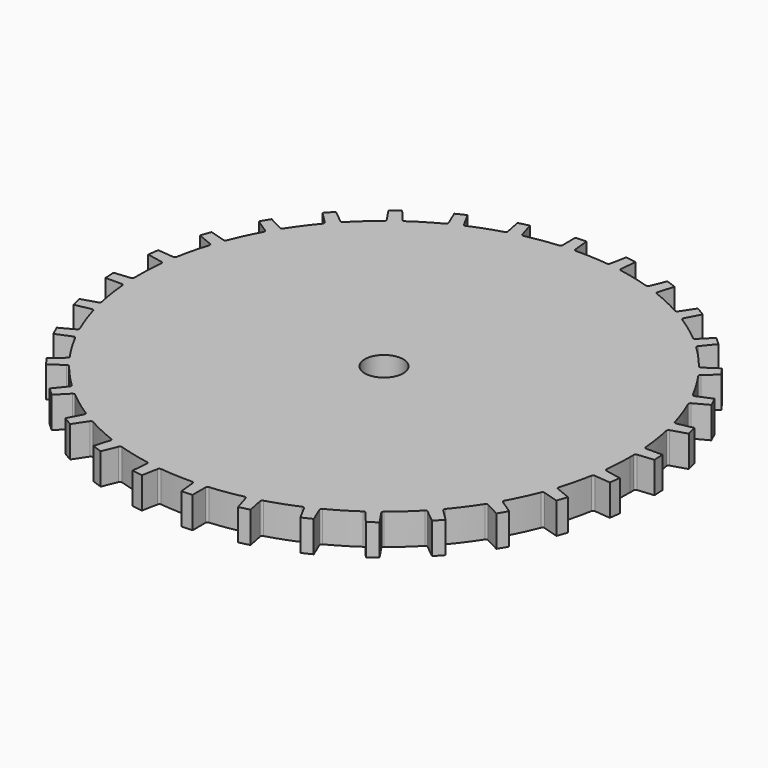
from build123d import *

# Parameters (mm, degrees)
F0_R     = 2.4
F1_DEPTH = 1.95
F2_R     = 0.254
F3_R     = 0.254
F4_R     = 0.254
F5_R     = 0.254


with BuildPart() as f1:
    # F0 (on Top) → F1 (new body, symmetric)
    with BuildSketch(Plane.XY):
        with BuildLine():
            Line((8.766769, -31.814207), (8.319825, -29.603091))
            ThreePointArc((8.319825, -29.603091), (7.56401, -29.805172), (6.803298, -29.987958))
            Line((6.803298, -29.987958), (7.464817, -32.144619))
            Line((7.464817, -32.144619), (8.766769, -31.814207))
        make_face()
        with BuildLine():
            Line((24.964328, -21.581991), (23.364278, -19.991823))
            ThreePointArc((23.364278, -19.991823), (22.848111, -20.579756), (22.317153, -21.154366))
            Line((22.317153, -21.154366), (24.065362, -22.580043))
            Line((24.065362, -22.580043), (24.964328, -21.581991))
        make_face()
        with BuildLine():
            Line((14.804962, -29.492594), (13.935239, -27.411159))
            ThreePointArc((13.935239, -27.411159), (13.23337, -27.756808), (12.522935, -28.08449))
            Line((12.522935, -28.08449), (13.592487, -30.070655))
            Line((13.592487, -30.070655), (14.804962, -29.492594))
        make_face()
        with BuildLine():
            Line((28.695083, -16.297), (26.815551, -15.049542))
            ThreePointArc((26.815551, -15.049542), (26.424002, -15.726876), (26.015347, -16.39403))
            Line((26.015347, -16.39403), (28.008101, -17.451255))
            Line((28.008101, -17.451255), (28.695083, -16.297))
        make_face()
        with BuildLine():
            Line((20.274208, -26.037597), (19.015129, -24.165831))
            ThreePointArc((19.015129, -24.165831), (18.394179, -24.641767), (17.761323, -25.101751))
            Line((17.761323, -25.101751), (19.197805, -26.841093))
            Line((19.197805, -26.841093), (20.274208, -26.037597))
        make_face()
        with BuildLine():
            Line((-16.297, -28.695083), (-15.049542, -26.815551))
            ThreePointArc((-15.049542, -26.815551), (-15.726876, -26.424002), (-16.39403, -26.015347))
            Line((-16.39403, -26.015347), (-17.451255, -28.008101))
            Line((-17.451255, -28.008101), (-16.297, -28.695083))
        make_face()
        with BuildLine():
            Line((32.747392, -4.075332), (30.533549, -3.642096))
            ThreePointArc((30.533549, -3.642096), (30.431009, -4.417711), (30.30877, -5.190466))
            Line((30.30877, -5.190466), (32.554417, -5.404621))
            Line((32.554417, -5.404621), (32.747392, -4.075332))
        make_face()
        with BuildLine():
            ThreePointArc((30.657393, 2.384686), (30.708139, 1.603969), (30.739006, 0.822215))
            Line((30.739006, 0.822215), (32.983282, 1.050279))
            Line((32.983282, 1.050279), (32.913218, 2.391674))
            Line((32.913218, 2.391674), (30.657393, 2.384686))
        make_face()
        with BuildLine():
            ThreePointArc((29.603091, 8.319825), (29.805172, 7.56401), (29.987958, 6.803299))
            Line((29.987958, 6.803299), (32.144619, 7.464817))
            Line((32.144619, 7.464817), (31.814207, 8.766769))
            Line((31.814207, 8.766769), (29.603091, 8.319825))
        make_face()
        with BuildLine():
            ThreePointArc((27.411159, 13.935239), (27.756808, 13.23337), (28.08449, 12.522935))
            Line((28.08449, 12.522935), (30.070655, 13.592487))
            Line((30.070655, 13.592487), (29.492594, 14.804962))
            Line((29.492594, 14.804962), (27.411159, 13.935239))
        make_face()
        with BuildLine():
            ThreePointArc((24.165831, 19.015129), (24.641767, 18.394179), (25.101751, 17.761323))
            Line((25.101751, 17.761323), (26.841093, 19.197805))
            Line((26.841093, 19.197805), (26.037597, 20.274208))
            Line((26.037597, 20.274208), (24.165831, 19.015129))
        make_face()
        with BuildLine():
            ThreePointArc((19.991823, 23.364278), (20.579756, 22.848111), (21.154366, 22.317153))
            Line((21.154366, 22.317153), (22.580043, 24.065362))
            Line((22.580043, 24.065362), (21.58199, 24.964328))
            Line((21.58199, 24.964328), (19.991823, 23.364278))
        make_face()
        with BuildLine():
            ThreePointArc((15.049542, 26.815551), (15.726876, 26.424002), (16.39403, 26.015347))
            Line((16.39403, 26.015347), (17.451255, 28.008101))
            Line((17.451255, 28.008101), (16.297, 28.695083))
            Line((16.297, 28.695083), (15.049542, 26.815551))
        make_face()
        with BuildLine():
            ThreePointArc((9.528914, 29.236318), (10.269622, 28.984433), (11.003681, 28.713786))
            Line((11.003681, 28.713786), (11.651825, 30.874504))
            Line((11.651825, 30.874504), (10.385724, 31.323102))
            Line((10.385724, 31.323102), (9.528914, 29.236318))
        make_face()
        with BuildLine():
            ThreePointArc((3.642096, 30.533549), (4.417711, 30.431009), (5.190466, 30.30877))
            Line((5.190466, 30.30877), (5.404621, 32.554417))
            Line((5.404621, 32.554417), (4.075332, 32.747392))
            Line((4.075332, 32.747392), (3.642096, 30.533549))
        make_face()
        with BuildLine():
            ThreePointArc((-2.384686, 30.657393), (-1.603969, 30.708139), (-0.822215, 30.739006))
            Line((-0.822215, 30.739006), (-1.050279, 32.983282))
            Line((-1.050279, 32.983282), (-2.391674, 32.913218))
            Line((-2.391674, 32.913218), (-2.384686, 30.657393))
        make_face()
        with BuildLine():
            ThreePointArc((-8.319825, 29.603091), (-7.56401, 29.805172), (-6.803298, 29.987958))
            Line((-6.803298, 29.987958), (-7.464817, 32.144619))
            Line((-7.464817, 32.144619), (-8.766769, 31.814207))
            Line((-8.766769, 31.814207), (-8.319825, 29.603091))
        make_face()
        with BuildLine():
            ThreePointArc((-13.935239, 27.411159), (-13.23337, 27.756808), (-12.522935, 28.08449))
            Line((-12.522935, 28.08449), (-13.592487, 30.070655))
            Line((-13.592487, 30.070655), (-14.804962, 29.492594))
            Line((-14.804962, 29.492594), (-13.935239, 27.411159))
        make_face()
        with BuildLine():
            Line((-10.385725, -31.323102), (-9.528914, -29.236318))
            ThreePointArc((-9.528914, -29.236318), (-10.269622, -28.984433), (-11.003681, -28.713786))
            Line((-11.003681, -28.713786), (-11.651825, -30.874504))
            Line((-11.651825, -30.874504), (-10.385725, -31.323102))
        make_face()
        with BuildLine():
            Line((-4.075332, -32.747392), (-3.642096, -30.533549))
            ThreePointArc((-3.642096, -30.533549), (-4.417711, -30.431009), (-5.190466, -30.30877))
            Line((-5.190466, -30.30877), (-5.404621, -32.554417))
            Line((-5.404621, -32.554417), (-4.075332, -32.747392))
        make_face()
        with BuildLine():
            Line((31.323102, -10.385724), (29.236318, -9.528914))
            ThreePointArc((29.236318, -9.528914), (28.984433, -10.269622), (28.713786, -11.003681))
            Line((28.713786, -11.003681), (30.874504, -11.651825))
            Line((30.874504, -11.651825), (31.323102, -10.385724))
        make_face()
        with BuildLine():
            Line((2.391674, -32.913218), (2.384686, -30.657393))
            ThreePointArc((2.384686, -30.657393), (1.603969, -30.708139), (0.822215, -30.739006))
            Line((0.822215, -30.739006), (1.050279, -32.983282))
            Line((1.050279, -32.983282), (2.391674, -32.913218))
        make_face()
        with BuildLine():
            ThreePointArc((30.533549, -3.642096), (30.69584, -1.824261), (30.75, 0))
            ThreePointArc((30.75, 0), (30.747251, 0.411144), (30.739006, 0.822215))
            ThreePointArc((30.739006, 0.822215), (30.708139, 1.603969), (30.657393, 2.384686))
            ThreePointArc((30.657393, 2.384686), (30.403054, 4.60617), (29.987958, 6.803299))
            ThreePointArc((29.987958, 6.803299), (29.805172, 7.56401), (29.603091, 8.319825))
            ThreePointArc((29.603091, 8.319825), (28.920249, 10.449005), (28.08449, 12.522935))
            ThreePointArc((28.08449, 12.522935), (27.756808, 13.23337), (27.411159, 13.935239))
            ThreePointArc((27.411159, 13.935239), (26.326055, 15.890291), (25.101751, 17.761323))
            ThreePointArc((25.101751, 17.761323), (24.641767, 18.394179), (24.165831, 19.015129))
            ThreePointArc((24.165831, 19.015129), (22.720165, 20.720922), (21.154366, 22.317153))
            ThreePointArc((21.154366, 22.317153), (20.579756, 22.848111), (19.991823, 23.364278))
            ThreePointArc((19.991823, 23.364278), (18.241152, 24.75526), (16.39403, 26.015347))
            ThreePointArc((16.39403, 26.015347), (15.726876, 26.424002), (15.049542, 26.815551))
            ThreePointArc((15.049542, 26.815551), (13.061142, 27.838266), (11.003681, 28.713786))
            ThreePointArc((11.003681, 28.713786), (10.269622, 28.984433), (9.528914, 29.236318))
            ThreePointArc((9.528914, 29.236318), (7.379199, 29.851464), (5.190466, 30.30877))
            ThreePointArc((5.190466, 30.30877), (4.417711, 30.431009), (3.642096, 30.533549))
            ThreePointArc((3.642096, 30.533549), (1.413678, 30.717487), (-0.822215, 30.739006))
            ThreePointArc((-0.822215, 30.739006), (-1.603969, 30.708139), (-2.384686, 30.657393))
            ThreePointArc((-2.384686, 30.657393), (-4.60617, 30.403054), (-6.803298, 29.987958))
            ThreePointArc((-6.803298, 29.987958), (-7.56401, 29.805172), (-8.319825, 29.603091))
            ThreePointArc((-8.319825, 29.603091), (-10.449005, 28.920249), (-12.522935, 28.08449))
            ThreePointArc((-12.522935, 28.08449), (-13.23337, 27.756808), (-13.935239, 27.411159))
            ThreePointArc((-13.935239, 27.411159), (-15.890291, 26.326055), (-17.761323, 25.101751))
            ThreePointArc((-17.761323, 25.101751), (-18.394179, 24.641767), (-19.015129, 24.165831))
            ThreePointArc((-19.015129, 24.165831), (-20.720922, 22.720165), (-22.317153, 21.154366))
            ThreePointArc((-22.317153, 21.154366), (-22.848111, 20.579756), (-23.364278, 19.991824))
            ThreePointArc((-23.364278, 19.991824), (-24.75526, 18.241152), (-26.015347, 16.39403))
            ThreePointArc((-26.015347, 16.39403), (-26.424002, 15.726876), (-26.815551, 15.049542))
            ThreePointArc((-26.815551, 15.049542), (-27.838266, 13.061142), (-28.713786, 11.003681))
            ThreePointArc((-28.713786, 11.003681), (-28.984433, 10.269622), (-29.236318, 9.528914))
            ThreePointArc((-29.236318, 9.528914), (-29.851464, 7.379199), (-30.30877, 5.190467))
            ThreePointArc((-30.30877, 5.190467), (-30.431009, 4.417711), (-30.533549, 3.642096))
            ThreePointArc((-30.533549, 3.642096), (-30.717487, 1.413678), (-30.739006, -0.822215))
            ThreePointArc((-30.739006, -0.822215), (-30.708139, -1.603969), (-30.657393, -2.384686))
            ThreePointArc((-30.657393, -2.384686), (-30.403054, -4.60617), (-29.987958, -6.803298))
            ThreePointArc((-29.987958, -6.803298), (-29.805172, -7.56401), (-29.603091, -8.319825))
            ThreePointArc((-29.603091, -8.319825), (-28.920249, -10.449005), (-28.08449, -12.522935))
            ThreePointArc((-28.08449, -12.522935), (-27.756808, -13.23337), (-27.411159, -13.935239))
            ThreePointArc((-27.411159, -13.935239), (-26.326055, -15.890291), (-25.101751, -17.761323))
            ThreePointArc((-25.101751, -17.761323), (-24.641767, -18.394179), (-24.165831, -19.015129))
            ThreePointArc((-24.165831, -19.015129), (-22.720165, -20.720922), (-21.154366, -22.317153))
            ThreePointArc((-21.154366, -22.317153), (-20.579756, -22.848111), (-19.991823, -23.364278))
            ThreePointArc((-19.991823, -23.364278), (-18.241152, -24.75526), (-16.39403, -26.015347))
            ThreePointArc((-16.39403, -26.015347), (-15.726876, -26.424002), (-15.049542, -26.815551))
            ThreePointArc((-15.049542, -26.815551), (-13.061142, -27.838266), (-11.003681, -28.713786))
            ThreePointArc((-11.003681, -28.713786), (-10.269622, -28.984433), (-9.528914, -29.236318))
            ThreePointArc((-9.528914, -29.236318), (-7.379199, -29.851464), (-5.190466, -30.30877))
            ThreePointArc((-5.190466, -30.30877), (-4.417711, -30.431009), (-3.642096, -30.533549))
            ThreePointArc((-3.642096, -30.533549), (-1.413678, -30.717487), (0.822215, -30.739006))
            ThreePointArc((0.822215, -30.739006), (1.603969, -30.708139), (2.384686, -30.657393))
            ThreePointArc((2.384686, -30.657393), (4.60617, -30.403054), (6.803298, -29.987958))
            ThreePointArc((6.803298, -29.987958), (7.56401, -29.805172), (8.319825, -29.603091))
            ThreePointArc((8.319825, -29.603091), (10.449005, -28.920249), (12.522935, -28.08449))
            ThreePointArc((12.522935, -28.08449), (13.23337, -27.756808), (13.935239, -27.411159))
            ThreePointArc((13.935239, -27.411159), (15.890291, -26.326055), (17.761323, -25.101751))
            ThreePointArc((17.761323, -25.101751), (18.394179, -24.641767), (19.015129, -24.165831))
            ThreePointArc((19.015129, -24.165831), (20.720922, -22.720165), (22.317153, -21.154366))
            ThreePointArc((22.317153, -21.154366), (22.848111, -20.579756), (23.364278, -19.991823))
            ThreePointArc((23.364278, -19.991823), (24.75526, -18.241152), (26.015347, -16.39403))
            ThreePointArc((26.015347, -16.39403), (26.424002, -15.726876), (26.815551, -15.049542))
            ThreePointArc((26.815551, -15.049542), (27.838266, -13.061142), (28.713786, -11.003681))
            ThreePointArc((28.713786, -11.003681), (28.984433, -10.269622), (29.236318, -9.528914))
            ThreePointArc((29.236318, -9.528914), (29.851464, -7.379199), (30.30877, -5.190466))
            ThreePointArc((30.30877, -5.190466), (30.431009, -4.417711), (30.533549, -3.642096))
        make_face()
        Circle(F0_R, mode=Mode.SUBTRACT)
        with BuildLine():
            Line((-29.492594, -14.804962), (-27.411159, -13.935239))
            ThreePointArc((-27.411159, -13.935239), (-27.756808, -13.23337), (-28.08449, -12.522935))
            Line((-28.08449, -12.522935), (-30.070655, -13.592487))
            Line((-30.070655, -13.592487), (-29.492594, -14.804962))
        make_face()
        with BuildLine():
            Line((-26.037597, -20.274208), (-24.165831, -19.015129))
            ThreePointArc((-24.165831, -19.015129), (-24.641767, -18.394179), (-25.101751, -17.761323))
            Line((-25.101751, -17.761323), (-26.841093, -19.197805))
            Line((-26.841093, -19.197805), (-26.037597, -20.274208))
        make_face()
        with BuildLine():
            ThreePointArc((-29.236318, 9.528914), (-28.984433, 10.269622), (-28.713786, 11.003681))
            Line((-28.713786, 11.003681), (-30.874504, 11.651825))
            Line((-30.874504, 11.651825), (-31.323102, 10.385725))
            Line((-31.323102, 10.385725), (-29.236318, 9.528914))
        make_face()
        with BuildLine():
            ThreePointArc((-23.364278, 19.991824), (-22.848111, 20.579756), (-22.317153, 21.154366))
            Line((-22.317153, 21.154366), (-24.065362, 22.580043))
            Line((-24.065362, 22.580043), (-24.964328, 21.581991))
            Line((-24.964328, 21.581991), (-23.364278, 19.991824))
        make_face()
        with BuildLine():
            ThreePointArc((-30.533549, 3.642096), (-30.431009, 4.417711), (-30.30877, 5.190467))
            Line((-30.30877, 5.190467), (-32.554417, 5.404621))
            Line((-32.554417, 5.404621), (-32.747392, 4.075332))
            Line((-32.747392, 4.075332), (-30.533549, 3.642096))
        make_face()
        with BuildLine():
            ThreePointArc((-26.815551, 15.049542), (-26.424002, 15.726876), (-26.015347, 16.39403))
            Line((-26.015347, 16.39403), (-28.008101, 17.451255))
            Line((-28.008101, 17.451255), (-28.695083, 16.297))
            Line((-28.695083, 16.297), (-26.815551, 15.049542))
        make_face()
        with BuildLine():
            Line((-32.913218, -2.391674), (-30.657393, -2.384686))
            ThreePointArc((-30.657393, -2.384686), (-30.708139, -1.603969), (-30.739006, -0.822215))
            Line((-30.739006, -0.822215), (-32.983282, -1.050279))
            Line((-32.983282, -1.050279), (-32.913218, -2.391674))
        make_face()
        with BuildLine():
            Line((-31.814207, -8.766769), (-29.603091, -8.319825))
            ThreePointArc((-29.603091, -8.319825), (-29.805172, -7.56401), (-29.987958, -6.803298))
            Line((-29.987958, -6.803298), (-32.144619, -7.464817))
            Line((-32.144619, -7.464817), (-31.814207, -8.766769))
        make_face()
        with BuildLine():
            Line((-21.581991, -24.964328), (-19.991823, -23.364278))
            ThreePointArc((-19.991823, -23.364278), (-20.579756, -22.848111), (-21.154366, -22.317153))
            Line((-21.154366, -22.317153), (-22.580043, -24.065362))
            Line((-22.580043, -24.065362), (-21.581991, -24.964328))
        make_face()
        with BuildLine():
            ThreePointArc((-19.015129, 24.165831), (-18.394179, 24.641767), (-17.761323, 25.101751))
            Line((-17.761323, 25.101751), (-19.197805, 26.841093))
            Line((-19.197805, 26.841093), (-20.274208, 26.037598))
            Line((-20.274208, 26.037598), (-19.015129, 24.165831))
        make_face()
    extrude(amount=F1_DEPTH, both=True)

    # F2
    f2_edges = [f1.edges().sort_by_distance(p)[0] for p in [
        (-8.319825, 29.603091, 0),
        (-6.803298, 29.987958, 0),
        (-2.384686, 30.657393, 0),
        (3.642096, 30.533549, 0),
        (9.528914, 29.236318, 0),
        (15.049542, 26.815551, 0),
        (19.991823, 23.364278, 0),
        (24.165831, 19.015129, 0),
        (27.411159, 13.935239, 0),
        (29.603091, 8.319825, 0),
        (30.657393, 2.384686, 0),
        (30.533549, -3.642096, 0),
        (29.236318, -9.528914, 0),
        (26.815551, -15.049542, 0),
        (23.364278, -19.991823, 0),
        (19.015129, -24.165831, 0),
        (13.935239, -27.411159, 0),
        (8.319825, -29.603091, 0),
        (2.384686, -30.657393, 0),
        (-3.642096, -30.533549, 0),
        (-9.528914, -29.236318, 0),
        (-15.049542, -26.815551, 0),
        (-19.991823, -23.364278, 0),
        (-24.165831, -19.015129, 0),
        (-27.411159, -13.935239, 0),
        (-29.603091, -8.319825, 0),
        (-30.657393, -2.384686, 0),
        (-30.533549, 3.642096, 0),
        (-29.236318, 9.528914, 0),
        (-26.815551, 15.049542, 0),
        (-23.364278, 19.991824, 0),
        (-19.015129, 24.165831, 0),
        (-13.935239, 27.411159, 0),
        (-26.015347, 16.39403, 0),
        (-28.713786, 11.003681, 0),
        (-30.30877, 5.190467, 0),
        (-22.317153, 21.154366, 0),
        (-17.761323, 25.101751, 0),
        (-12.522935, 28.08449, 0),
        (-0.822215, 30.739006, 0),
        (5.190466, 30.30877, 0),
        (11.003681, 28.713786, 0),
        (16.39403, 26.015347, 0),
        (21.154366, 22.317153, 0),
        (25.101751, 17.761323, 0),
        (28.08449, 12.522935, 0),
        (29.987958, 6.803299, 0),
        (30.739006, 0.822215, 0),
        (30.30877, -5.190466, 0),
        (28.713786, -11.003681, 0),
        (26.015347, -16.39403, 0),
    ]]
    fillet(f2_edges, radius=F2_R)

    # F3
    f3_edges = [f1.edges().sort_by_distance(p)[0] for p in [
        (17.761323, -25.101751, 0),
        (22.317153, -21.154366, 0),
    ]]
    fillet(f3_edges, radius=F3_R)

    # F4
    f4_edges = [f1.edges().sort_by_distance(p)[0] for p in [
        (12.522935, -28.08449, 0),
        (6.803298, -29.987958, 0),
        (0.822215, -30.739006, 0),
        (-5.190466, -30.30877, 0),
        (-11.003681, -28.713786, 0),
        (-16.39403, -26.015347, 0),
        (-21.154366, -22.317153, 0),
        (-25.101751, -17.761323, 0),
        (-28.08449, -12.522935, 0),
        (-29.987958, -6.803298, 0),
    ]]
    fillet(f4_edges, radius=F4_R)

    # F5
    f5_edges = [f1.edges().sort_by_distance(p)[0] for p in [
        (-30.739006, -0.822215, 0),
    ]]
    fillet(f5_edges, radius=F5_R)


solid = f1.part
